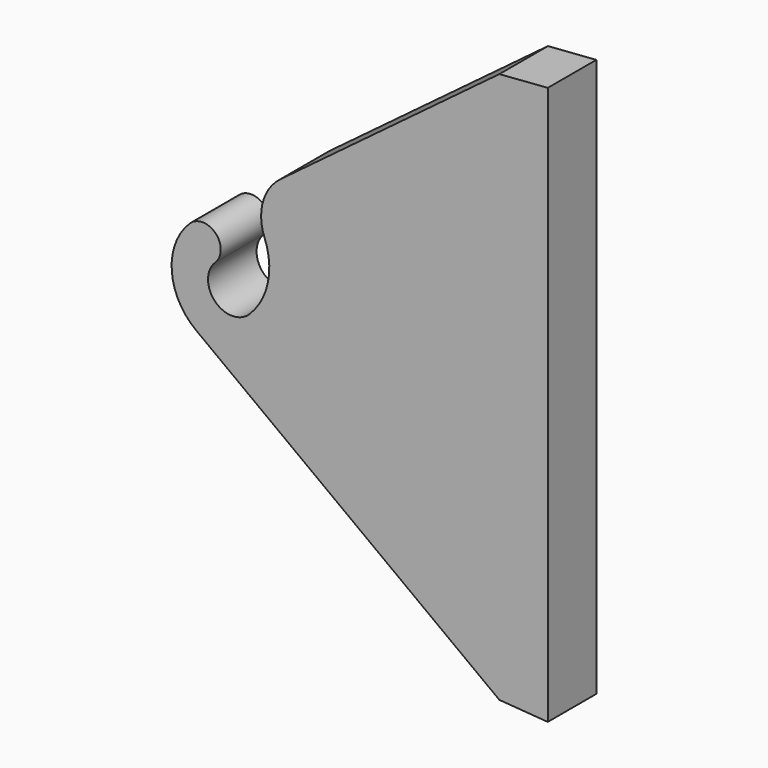
from build123d import *

# Parameters (mm, degrees)
F1_DEPTH = 25


with BuildPart() as f1:
    # F0 (on Front) → F1 (new body)
    with BuildSketch(Plane.XZ):
        with BuildLine():
            ThreePointArc((-123.001458, 122.857143), (-137.142857, 123.001458), (-136.998542, 137.142857))
            ThreePointArc((-136.998542, 137.142857), (-136.890306, 147.748907), (-147.496355, 147.857143))
            ThreePointArc((-147.496355, 147.857143), (-154.846467, 132.766417), (-150.995626, 116.428571))
            ThreePointArc((-150.995626, 116.428571), (-148.270306, 112.935536), (-144.97119, 109.978425))
            Line((-144.97119, 109.978425), (-19.94447, 16.489339))
            Line((-19.94447, 16.489339), (0, 15))
            Line((0, 15), (0, 245))
            Line((0, 245), (-19.94447, 243.510661))
            Line((-19.94447, 243.510661), (-110.097784, 176.098264))
            ThreePointArc((-110.097784, 176.098264), (-117.370449, 165.507995), (-116.70046, 152.678476))
            ThreePointArc((-116.70046, 152.678476), (-115.341488, 136.814996), (-123.001458, 122.857143))
        make_face()
    extrude(amount=F1_DEPTH)


solid = f1.part
